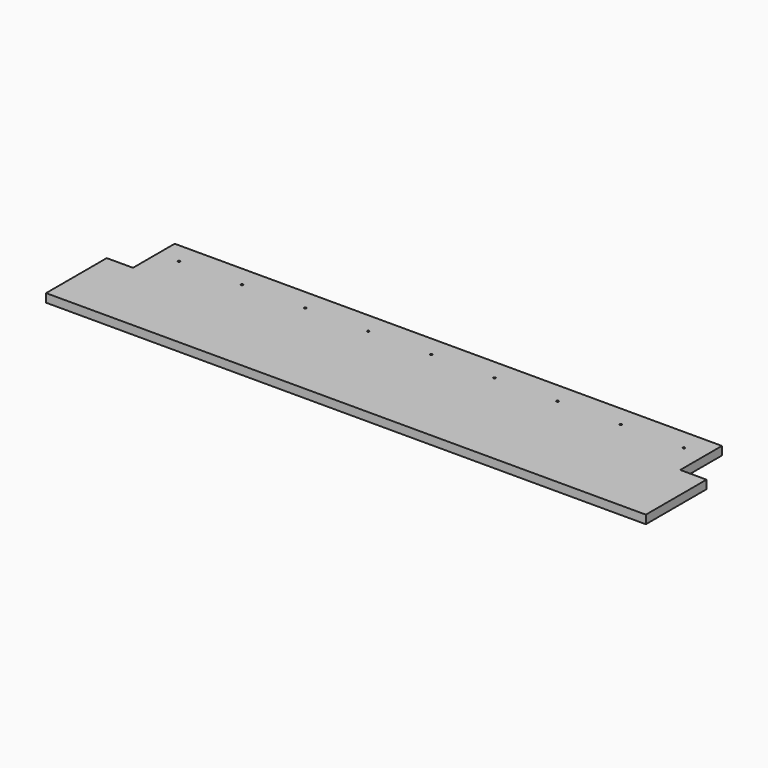
from build123d import *

# Parameters (mm, degrees)
F1_DEPTH       = 2
F2_D           = 0.5
F2_CSINK_D     = 1
F2_CSINK_ANGLE = 90


with BuildPart() as f1:
    # F0 (on Top) → F1 (new body)
    with BuildSketch(Plane.XY):
        Polygon((-37.3240720307, 16.6729825407), (-37.3240720307, -1.2270174593), (104.2759279693, -1.2270174593), (104.2759279693, 16.6729825407), (98.0759279693, 16.6729825407), (98.0759279693, 28.9729825407), (-31.1240720307, 28.9729825407), (-31.1240720307, 16.6729825407), align=None)
    extrude(amount=F1_DEPTH)

    # F2 (through all)
    with Locations(Plane(origin=(0, 0, 0), x_dir=(1, 0, 0), z_dir=(0, 0, -1))):
        with Locations((-26.1240720307, -23.9729825407), (-11.2240720307, -23.9729825407), (3.6759279693, -23.9729825407), (18.5759279693, -23.9729825407), (33.4759279693, -23.9729825407), (48.3759279693, -23.9729825407), (63.2759279693, -23.9729825407), (78.1759279693, -23.9729825407), (93.0759279693, -23.9729825407)):
            CounterSinkHole(F2_D / 2, F2_CSINK_D / 2, counter_sink_angle=F2_CSINK_ANGLE)


solid = f1.part
